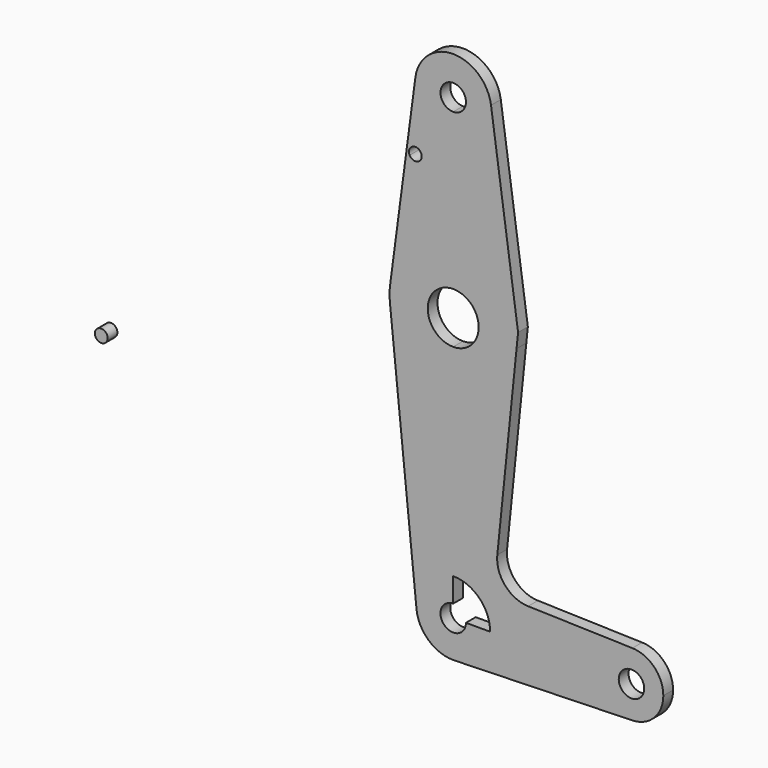
from build123d import *

# Parameters (mm, degrees)
F1_DEPTH = 3.048
F0_R     = 1.5875


with BuildPart() as f1:
    # F0 (on Front) → F1 (new body)
    with BuildSketch(Plane.XZ):
        with BuildLine():
            ThreePointArc((0, 9.2075), (-6.8321764832, 6.1724728232), (-9.1602332154, -0.9317637518))
            ThreePointArc((-9.1602332154, -0.9317637518), (-6.1724728232, -6.8321764832), (0, -9.2075))
            Line((0, -9.2075), (0.5243818332, -9.1925556807))
            ThreePointArc((0.5243818332, -9.1925556807), (6.6935155927, -6.3225710957), (9.2075, 0))
            Line((9.2075, 0), (3.175, 0))
            ThreePointArc((3.175, 0), (-2.2450640303, -2.2450640303), (0, 3.175))
            Line((0, 3.175), (0, 9.2075))
        make_face()
        with BuildLine():
            Line((-15.7935055438, 64.2803905015), (-9.1602332154, -0.9317637518))
            ThreePointArc((-9.1602332154, -0.9317637518), (-6.8321764832, 6.1724728232), (0, 9.2075))
            Line((0, 9.2075), (0, 50.0118797288))
            ThreePointArc((0, 50.0118797288), (-10.6421945227, 54.1072651026), (-15.7935055438, 64.2803905015))
        make_face()
        with BuildLine():
            Line((0.5243818332, -9.1925556807), (0, -9.2075))
            ThreePointArc((0, -9.2075), (0.2622973692, -9.2037631619), (0.5243818332, -9.1925556807))
        make_face()
        with BuildLine():
            Line((0, 50.0118797288), (0, 9.2075))
            ThreePointArc((0, 9.2075), (6.5106856878, 6.5106856878), (9.2075, 0))
            Line((9.2075, 0), (36.5125, 0))
            ThreePointArc((36.5125, 0), (38.9178624711, 5.6920436235), (44.6761184218, 7.9342785878))
            Line((44.6761184218, 7.9342785878), (18.6754674163, 8.6774577476))
            ThreePointArc((18.6754674163, 8.6774577476), (12.9259239971, 11.381814197), (10.9938190933, 17.4347278734))
            Line((10.9938190933, 17.4347278734), (15.7923260724, 64.2688370156))
            ThreePointArc((15.7923260724, 64.2688370156), (10.637885056, 54.1033731821), (0, 50.0118797288))
        make_face()
        with BuildLine():
            ThreePointArc((-15.7378533914, 67.9690890438), (-15.8731935447, 66.1263618596), (-15.7935055438, 64.2803905015))
            ThreePointArc((-15.7935055438, 64.2803905015), (-10.6421945227, 54.1072651026), (0, 50.0118797288))
            Line((0, 50.0118797288), (0, 59.5368797288))
            ThreePointArc((0, 59.5368797288), (-6.35, 65.8868797288), (0, 72.2368797288))
            Line((0, 72.2368797288), (0, 81.7618797288))
            ThreePointArc((0, 81.7618797288), (-10.4632822796, 77.8256966274), (-15.7378533914, 67.9690890438))
        make_face()
        with BuildLine():
            ThreePointArc((9.2075, 0), (6.6935155927, -6.3225710957), (0.5243818332, -9.1925556807))
            Line((0.5243818332, -9.1925556807), (44.6761184218, -7.9342785878))
            ThreePointArc((44.6761184218, -7.9342785878), (38.9178624711, -5.6920436235), (36.5125, 0))
            Line((36.5125, 0), (9.2075, 0))
        make_face()
        with BuildLine():
            Line((0, 59.5368797288), (0, 50.0118797288))
            ThreePointArc((0, 50.0118797288), (10.637885056, 54.1033731821), (15.7923260724, 64.2688370156))
            ThreePointArc((15.7923260724, 64.2688370156), (15.8543180459, 65.076803004), (15.875, 65.8868797288))
            ThreePointArc((15.875, 65.8868797288), (11.2253201513, 77.1121998801), (0, 81.7618797288))
            Line((0, 81.7618797288), (0, 72.2368797288))
            ThreePointArc((0, 72.2368797288), (4.4901280605, 70.3770077893), (6.35, 65.8868797288))
            ThreePointArc((6.35, 65.8868797288), (4.4901280605, 61.3967516682), (0, 59.5368797288))
        make_face()
        with BuildLine():
            Line((-11.8213637196, 97.5708873916), (-15.7378533914, 67.9690890438))
            ThreePointArc((-15.7378533914, 67.9690890438), (-10.4632822796, 77.8256966274), (0, 81.7618797288))
            Line((0, 81.7618797288), (0, 104.775))
            ThreePointArc((0, 104.775), (-7.1632901392, 108.0220306323), (-9.4427120348, 115.549325589))
            Line((-9.4427120348, 115.549325589), (-11.8213637196, 97.5708873916))
        make_face()
        with BuildLine():
            ThreePointArc((-7.8552120348, 98.785179005), (-9.0715232279, 97.2416845543), (-10.8566295083, 98.0633801216))
            ThreePointArc((-10.8566295083, 98.0633801216), (-9.8139008418, 100.3286734558), (-7.8552120348, 98.785179005))
        make_face(mode=Mode.SUBTRACT)
        with BuildLine():
            ThreePointArc((36.5125, 0), (38.9178624711, -5.6920436235), (44.6761184218, -7.9342785878))
            ThreePointArc((44.6761184218, -7.9342785878), (50.1420436235, -5.5321375289), (52.3875, 0))
            ThreePointArc((52.3875, 0), (50.1420436235, 5.5321375289), (44.6761184218, 7.9342785878))
            ThreePointArc((44.6761184218, 7.9342785878), (38.9178624711, 5.6920436235), (36.5125, 0))
        make_face()
        with BuildLine():
            ThreePointArc((47.625, 0), (44.45, -3.175), (41.275, 0))
            ThreePointArc((41.275, 0), (44.45, 3.175), (47.625, 0))
        make_face(mode=Mode.SUBTRACT)
        with BuildLine():
            ThreePointArc((15.875, 65.8868797288), (15.8543180459, 65.076803004), (15.7923260724, 64.2688370156))
            Line((15.7923260724, 64.2688370156), (16.1714447427, 67.9690890438))
            Line((16.1714447427, 67.9690890438), (9.4311694465, 115.6336670764))
            ThreePointArc((9.4311694465, 115.6336670764), (9.5015134052, 114.9684818703), (9.525, 114.3))
            ThreePointArc((9.525, 114.3), (6.7351920908, 107.5648079092), (0, 104.775))
            Line((0, 104.775), (0, 81.7618797288))
            ThreePointArc((0, 81.7618797288), (11.2253201513, 77.1121998801), (15.875, 65.8868797288))
        make_face()
        with BuildLine():
            ThreePointArc((-9.4427120348, 115.549325589), (-7.1632901392, 108.0220306323), (0, 104.775))
            ThreePointArc((0, 104.775), (6.7351920908, 107.5648079092), (9.525, 114.3))
            ThreePointArc((9.525, 114.3), (9.5015134052, 114.9684818703), (9.4311694465, 115.6336670764))
            ThreePointArc((9.4311694465, 115.6336670764), (-0.0425638281, 123.8249048982), (-9.4427120348, 115.549325589))
        make_face()
        with BuildLine():
            ThreePointArc((3.175, 114.3), (2.2450640303, 112.0549359697), (0, 111.125))
            ThreePointArc((0, 111.125), (-2.2450640303, 116.5450640303), (3.175, 114.3))
        make_face(mode=Mode.SUBTRACT)
    extrude(amount=F1_DEPTH)


with BuildPart() as f1b:
    # F0 (on Front) → F1, piece 2 (new body)
    with BuildSketch(Plane.XZ):
        with Locations((-87.7529904246, 33.4265679121)):
            Circle(F0_R)
    extrude(amount=F1_DEPTH)


solid = Compound([f1.part, f1b.part])
